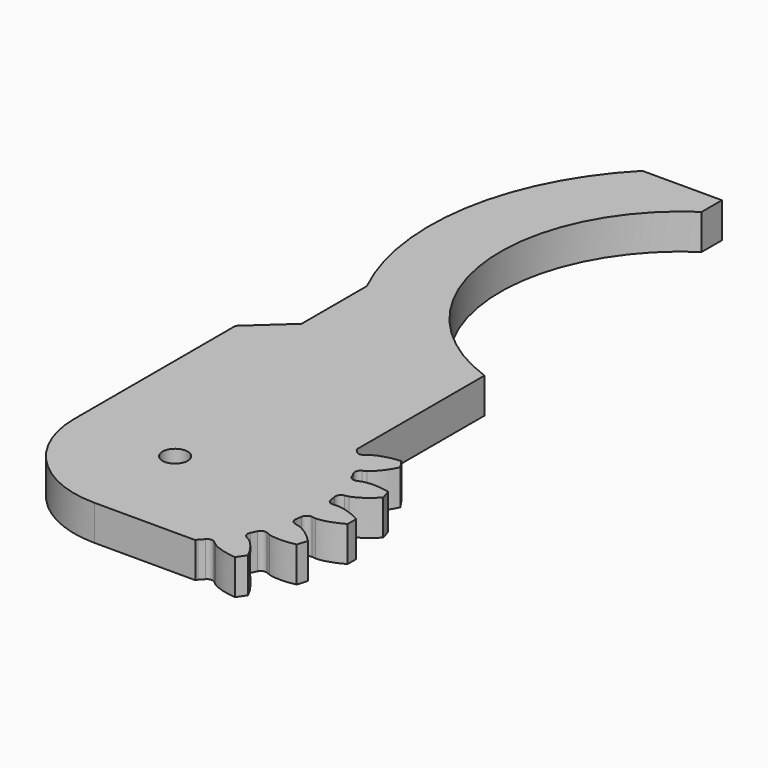
from build123d import *

# Parameters (mm, degrees)
SKETCH002_W       = 3.675859
SKETCH002_H       = 9.820133
PAD002_DEPTH      = 10
CYLINDER001_R     = 2.5
CYLINDER001_DEPTH = 30
PAD_DEPTH         = 7
PAD001_DEPTH      = 7


with BuildPart() as gearcutter_g:
    # Sketch002 → Pad002 (new body)
    with BuildSketch(Plane.XY):
        with BuildLine():
            Line((-20, 35), (-38.772621, 35))
            Line((-38.772621, 35), (-38.772621, -38.212818))
            Line((-38.772621, -38.212818), (39.418999, -38.212818))
            Line((20.044458, -20.01598), (39.418999, -38.212818))
            Line((0, -20), (20.044458, -20.01598))
            ThreePointArc((-20, 0), (-14.142136, -14.142136), (0, -20))
            Line((-20, 35), (-20, 0))
        make_face()
        with Locations((21.83793, 25.089934)):
            Rectangle(SKETCH002_W, SKETCH002_H)
    extrude(amount=PAD002_DEPTH)


with BuildPart() as hole:
    # Cylinder001 → Cylinder001 (new body)
    with BuildSketch(Plane.XY.offset(-10)):
        Circle(CYLINDER001_R)
    extrude(amount=CYLINDER001_DEPTH)


with BuildPart() as cut001:
    # InvoluteGear → Pad (new body)
    with BuildSketch(Plane.XY):
        with BuildLine():
            Line((29.216017, -2.627852), (30.02668, -2.698596))
            add(Edge.make_bspline(
                [(30.02668, -2.698596), (30.269336, -2.702327), (31.240634, -2.684194), (32.940327, -2.265756), (35.058609, -1.065575)],
                knots=[0, 0, 0, 0, 0, 1, 1, 1, 1, 1], degree=4))
            ThreePointArc((35.058609, -1.065575), (35.074799, 0), (35.058609, 1.065575))
            add(Edge.make_bspline(
                [(35.058609, 1.065575), (32.940327, 2.265756), (31.240634, 2.684194), (30.269336, 2.702327), (30.02668, 2.698596)],
                knots=[0, 0, 0, 0, 0, 1, 1, 1, 1, 1], degree=4))
            Line((30.02668, 2.698596), (29.216017, 2.627852))
            ThreePointArc((29.216017, 2.627852), (28.398075, 2.874673), (27.979368, 3.61941))
            ThreePointArc((27.979368, 3.61941), (27.89739, 4.204855), (27.803163, 4.788454))
            ThreePointArc((27.803163, 4.788454), (27.983753, 5.62352), (28.692604, 6.100468))
            Line((28.692604, 6.100468), (29.488104, 6.271815))
            add(Edge.make_bspline(
                [(29.488104, 6.271815), (29.72108, 6.339774), (30.64388, 6.643396), (32.144724, 7.544237), (33.815137, 9.315472)],
                knots=[0, 0, 0, 0, 0, 1, 1, 1, 1, 1], degree=4))
            ThreePointArc((33.815137, 9.315472), (33.516524, 10.338478), (33.18697, 11.351941))
            add(Edge.make_bspline(
                [(33.18697, 11.351941), (30.809038, 11.874427), (29.06152, 11.773281), (28.12803, 11.504313), (27.897254, 11.429224)],
                knots=[0, 0, 0, 0, 0, 1, 1, 1, 1, 1], degree=4))
            Line((27.897254, 11.429224), (27.143458, 11.122676))
            ThreePointArc((27.143458, 11.122676), (26.289104, 11.117439), (25.669483, 11.705673))
            ThreePointArc((25.669483, 11.705673), (25.418584, 12.240945), (25.156525, 12.770842))
            ThreePointArc((25.156525, 12.770842), (25.082952, 13.622039), (25.619728, 14.286735))
            Line((25.619728, 14.286735), (26.32938, 14.684947))
            add(Edge.make_bspline(
                [(26.32938, 14.684947), (26.531974, 14.818557), (27.324283, 15.380691), (28.492921, 16.683892), (29.567042, 18.868799)],
                knots=[0, 0, 0, 0, 0, 1, 1, 1, 1, 1], degree=4))
            ThreePointArc((29.567042, 18.868799), (28.980159, 19.758338), (28.366523, 20.629637))
            add(Edge.make_bspline(
                [(28.366523, 20.629637), (25.94023, 20.428003), (24.300163, 19.816261), (23.487425, 19.284092), (23.289034, 19.144315)],
                knots=[0, 0, 0, 0, 0, 1, 1, 1, 1, 1], degree=4))
            Line((23.289034, 19.144315), (22.659084, 18.629202))
            ThreePointArc((22.659084, 18.629202), (21.84423, 18.372372), (21.078752, 18.751836))
            ThreePointArc((21.078752, 18.751836), (20.681226, 19.189373), (20.274619, 19.618485))
            ThreePointArc((20.274619, 19.618485), (19.95342, 20.41018), (20.270426, 21.203563))
            Line((20.270426, 21.203563), (20.831176, 21.793257))
            add(Edge.make_bspline(
                [(20.831176, 21.793257), (20.985387, 21.980647), (21.576804, 22.751344), (22.309397, 24.341109), (22.691785, 26.745549)],
                knots=[0, 0, 0, 0, 0, 1, 1, 1, 1, 1], degree=4))
            ThreePointArc((22.691785, 26.745549), (21.868779, 27.422582), (21.025585, 28.074299))
            add(Edge.make_bspline(
                [(21.025585, 28.074299), (18.766519, 27.166461), (17.37963, 26.098479), (16.759858, 25.350393), (16.611482, 25.15835)],
                knots=[0, 0, 0, 0, 0, 1, 1, 1, 1, 1], degree=4))
            Line((16.611482, 25.15835), (16.161351, 24.480441))
            ThreePointArc((16.161351, 24.480441), (15.4584, 23.994839), (14.615082, 24.131816))
            ThreePointArc((14.615082, 24.131816), (14.10625, 24.432742), (13.591225, 24.72294))
            ThreePointArc((13.591225, 24.72294), (13.05094, 25.384787), (13.120008, 26.236361))
            Line((13.120008, 26.236361), (13.48203, 26.96514))
            add(Edge.make_bspline(
                [(13.48203, 26.96514), (13.574155, 27.18966), (13.912131, 28.10044), (14.143586, 29.835512), (13.800264, 32.245841)],
                knots=[0, 0, 0, 0, 0, 1, 1, 1, 1, 1], degree=4))
            ThreePointArc((13.800264, 32.245841), (12.814263, 32.65021), (11.816433, 33.024437))
            add(Edge.make_bspline(
                [(11.816433, 33.024437), (9.92532, 31.49106), (8.91484, 30.061732), (8.543105, 29.164202), (8.457926, 28.936956)],
                knots=[0, 0, 0, 0, 0, 1, 1, 1, 1, 1], degree=4))
            Line((8.457926, 28.936956), (8.227611, 28.156485))
            ThreePointArc((8.227611, 28.156485), (7.699024, 27.485259), (6.852797, 27.367578))
            ThreePointArc((6.852797, 27.367578), (6.277872, 27.505154), (5.70019, 27.630653))
            ThreePointArc((5.70019, 27.630653), (4.988826, 28.103844), (4.80382, 28.937943))
            Line((4.80382, 28.937943), (4.934946, 29.741053))
            add(Edge.make_bspline(
                [(4.934946, 29.741053), (4.956801, 29.982752), (5.011304, 30.952689), (4.721054, 32.678899), (3.682528, 34.880948)],
                knots=[0, 0, 0, 0, 0, 1, 1, 1, 1, 1], degree=4))
            ThreePointArc((3.682528, 34.880948), (2.621143, 34.976723), (1.557338, 35.040209))
            add(Edge.make_bspline(
                [(1.557338, 35.040209), (0.202213, 33.01754), (-0.342073, 31.353869), (-0.43274, 30.386642), (-0.447153, 30.144385)],
                knots=[0, 0, 0, 0, 0, 1, 1, 1, 1, 1], degree=4))
            Line((-0.447153, 30.144385), (-0.437188, 29.330703))
            ThreePointArc((-0.437188, 29.330703), (-0.744444, 28.533493), (-1.518389, 28.171611))
            ThreePointArc((-1.518389, 28.171611), (-2.108323, 28.133612), (-2.697331, 28.083261))
            ThreePointArc((-2.697331, 28.083261), (-3.516567, 28.325751), (-3.939209, 29.068262))
            Line((-3.939209, 29.068262), (-4.050629, 29.874342))
            add(Edge.make_bspline(
                [(-4.050629, 29.874342), (-4.100987, 30.111745), (-4.3348, 31.054656), (-5.120964, 32.618623), (-6.762416, 34.416729)],
                knots=[0, 0, 0, 0, 0, 1, 1, 1, 1, 1], degree=4))
            ThreePointArc((-6.762416, 34.416729), (-7.804877, 34.195401), (-8.840133, 33.942504))
            add(Edge.make_bspline(
                [(-8.840133, 33.942504), (-9.538861, 31.610267), (-9.56859, 29.860077), (-9.370135, 28.909097), (-9.312501, 28.673354)],
                knots=[0, 0, 0, 0, 0, 1, 1, 1, 1, 1], degree=4))
            Line((-9.312501, 28.673354), (-9.063142, 27.898758))
            ThreePointArc((-9.063142, 27.898758), (-9.121765, 27.046401), (-9.754659, 26.472472))
            ThreePointArc((-9.754659, 26.472472), (-10.307184, 26.262276), (-10.855183, 26.040548))
            ThreePointArc((-10.855183, 26.040548), (-11.709498, 26.030791), (-12.332222, 26.615739))
            Line((-12.332222, 26.615739), (-12.676288, 27.353165))
            add(Edge.make_bspline(
                [(-12.676288, 27.353165), (-12.794385, 27.565178), (-13.295737, 28.39728), (-14.507962, 29.660038), (-16.60649, 30.894434)],
                knots=[0, 0, 0, 0, 0, 1, 1, 1, 1, 1], degree=4))
            ThreePointArc((-16.60649, 30.894434), (-17.537399, 30.375667), (-18.452119, 29.828859))
            add(Edge.make_bspline(
                [(-18.452119, 29.828859), (-18.432366, 27.394282), (-17.944897, 25.713086), (-17.474952, 24.862851), (-17.350392, 24.65457)],
                knots=[0, 0, 0, 0, 0, 1, 1, 1, 1, 1], degree=4))
            Line((-17.350392, 24.65457), (-16.883795, 23.987887))
            ThreePointArc((-16.883795, 23.987887), (-16.688578, 23.156118), (-17.124185, 22.421138))
            ThreePointArc((-17.124185, 22.421138), (-17.590206, 22.057421), (-18.048504, 21.684019))
            ThreePointArc((-18.048504, 21.684019), (-18.861988, 21.422881), (-19.629463, 21.79829))
            Line((-19.629463, 21.79829), (-20.175603, 22.401539))
            add(Edge.make_bspline(
                [(-20.175603, 22.401539), (-20.350945, 22.569323), (-21.07529, 23.216681), (-22.605863, 24.066029), (-24.975004, 24.627032)],
                knots=[0, 0, 0, 0, 0, 1, 1, 1, 1, 1], degree=4))
            ThreePointArc((-24.975004, 24.627032), (-25.711647, 23.856922), (-26.424554, 23.064789))
            add(Edge.make_bspline(
                [(-26.424554, 23.064789), (-25.688074, 20.744196), (-24.726721, 19.281374), (-24.027043, 18.607432), (-23.846625, 18.445118)],
                knots=[0, 0, 0, 0, 0, 1, 1, 1, 1, 1], degree=4))
            Line((-23.846625, 18.445118), (-23.204249, 17.945586))
            ThreePointArc((-23.204249, 17.945586), (-22.772537, 17.208312), (-22.972152, 16.377588))
            ThreePointArc((-22.972152, 16.377588), (-23.310261, 15.892667), (-23.638136, 15.400768))
            ThreePointArc((-23.638136, 15.400768), (-24.338508, 14.911454), (-25.182539, 15.043968))
            Line((-25.182539, 15.043968), (-25.882227, 15.459439))
            add(Edge.make_bspline(
                [(-25.882227, 15.459439), (-26.099234, 15.568085), (-26.982211, 15.973178), (-28.695135, 16.333648), (-31.12438, 16.17141)],
                knots=[0, 0, 0, 0, 0, 1, 1, 1, 1, 1], degree=4))
            ThreePointArc((-31.12438, 16.17141), (-31.601302, 15.218385), (-32.049051, 14.251311))
            add(Edge.make_bspline(
                [(-32.049051, 14.251311), (-30.661284, 12.250897), (-29.311467, 11.136428), (-28.444225, 10.698661), (-28.22398, 10.596737)],
                knots=[0, 0, 0, 0, 0, 1, 1, 1, 1, 1], degree=4))
            Line((-28.22398, 10.596737), (-27.462904, 10.308742))
            ThreePointArc((-27.462904, 10.308742), (-26.833056, 9.731472), (-26.778943, 8.878817))
            ThreePointArc((-26.778943, 8.878817), (-26.959098, 8.31578), (-27.127416, 7.749093))
            ThreePointArc((-27.127416, 7.749093), (-27.652445, 7.075079), (-28.498037, 6.952923))
            Line((-28.498037, 6.952923), (-29.289102, 7.143699))
            add(Edge.make_bspline(
                [(-29.289102, 7.143699), (-29.528492, 7.183554), (-30.491644, 7.310388), (-32.234718, 7.14995), (-34.508218, 6.278888)],
                knots=[0, 0, 0, 0, 0, 1, 1, 1, 1, 1], degree=4))
            ThreePointArc((-34.508218, 6.278888), (-34.683042, 5.227628), (-34.825849, 4.171541))
            add(Edge.make_bspline(
                [(-34.825849, 4.171541), (-32.910105, 2.669052), (-31.29176, 2.001961), (-30.334014, 1.839267), (-30.093511, 1.80679)],
                knots=[0, 0, 0, 0, 0, 1, 1, 1, 1, 1], degree=4))
            Line((-30.093511, 1.80679), (-29.281359, 1.75592))
            ThreePointArc((-29.281359, 1.75592), (-28.50934, 1.389948), (-28.206307, 0.591124))
            ThreePointArc((-28.206307, 0.591124), (-28.2125, 0), (-28.206307, -0.591124))
            ThreePointArc((-28.206307, -0.591124), (-28.50934, -1.389948), (-29.281359, -1.75592))
            Line((-29.281359, -1.75592), (-30.093511, -1.80679))
            add(Edge.make_bspline(
                [(-30.093511, -1.80679), (-30.334014, -1.839267), (-31.29176, -2.001961), (-32.910105, -2.669052), (-34.825849, -4.171541)],
                knots=[0, 0, 0, 0, 0, 1, 1, 1, 1, 1], degree=4))
            ThreePointArc((-34.825849, -4.171541), (-34.683042, -5.227628), (-34.508218, -6.278888))
            add(Edge.make_bspline(
                [(-34.508218, -6.278888), (-32.234718, -7.14995), (-30.491644, -7.310388), (-29.528492, -7.183554), (-29.289102, -7.143699)],
                knots=[0, 0, 0, 0, 0, 1, 1, 1, 1, 1], degree=4))
            Line((-29.289102, -7.143699), (-28.498037, -6.952923))
            ThreePointArc((-28.498037, -6.952923), (-27.652445, -7.075079), (-27.127416, -7.749093))
            ThreePointArc((-27.127416, -7.749093), (-26.959098, -8.31578), (-26.778943, -8.878817))
            ThreePointArc((-26.778943, -8.878817), (-26.833056, -9.731472), (-27.462904, -10.308742))
            Line((-27.462904, -10.308742), (-28.22398, -10.596737))
            add(Edge.make_bspline(
                [(-28.22398, -10.596737), (-28.444225, -10.698661), (-29.311467, -11.136428), (-30.661284, -12.250897), (-32.049051, -14.251311)],
                knots=[0, 0, 0, 0, 0, 1, 1, 1, 1, 1], degree=4))
            ThreePointArc((-32.049051, -14.251311), (-31.601302, -15.218385), (-31.12438, -16.17141))
            add(Edge.make_bspline(
                [(-31.12438, -16.17141), (-28.695135, -16.333648), (-26.982211, -15.973178), (-26.099234, -15.568085), (-25.882227, -15.459439)],
                knots=[0, 0, 0, 0, 0, 1, 1, 1, 1, 1], degree=4))
            Line((-25.882227, -15.459439), (-25.182539, -15.043968))
            ThreePointArc((-25.182539, -15.043968), (-24.338508, -14.911454), (-23.638136, -15.400768))
            ThreePointArc((-23.638136, -15.400768), (-23.310261, -15.892667), (-22.972152, -16.377588))
            ThreePointArc((-22.972152, -16.377588), (-22.772537, -17.208312), (-23.204249, -17.945586))
            Line((-23.204249, -17.945586), (-23.846625, -18.445118))
            add(Edge.make_bspline(
                [(-23.846625, -18.445118), (-24.027043, -18.607432), (-24.726721, -19.281374), (-25.688074, -20.744196), (-26.424554, -23.064789)],
                knots=[0, 0, 0, 0, 0, 1, 1, 1, 1, 1], degree=4))
            ThreePointArc((-26.424554, -23.064789), (-25.711647, -23.856922), (-24.975004, -24.627032))
            add(Edge.make_bspline(
                [(-24.975004, -24.627032), (-22.605863, -24.066029), (-21.07529, -23.216681), (-20.350945, -22.569323), (-20.175603, -22.401539)],
                knots=[0, 0, 0, 0, 0, 1, 1, 1, 1, 1], degree=4))
            Line((-20.175603, -22.401539), (-19.629463, -21.79829))
            ThreePointArc((-19.629463, -21.79829), (-18.861988, -21.422881), (-18.048504, -21.684019))
            ThreePointArc((-18.048504, -21.684019), (-17.590206, -22.057421), (-17.124185, -22.421138))
            ThreePointArc((-17.124185, -22.421138), (-16.688578, -23.156118), (-16.883795, -23.987887))
            Line((-16.883795, -23.987887), (-17.350392, -24.65457))
            add(Edge.make_bspline(
                [(-17.350392, -24.65457), (-17.474952, -24.862851), (-17.944897, -25.713086), (-18.432366, -27.394282), (-18.452119, -29.828859)],
                knots=[0, 0, 0, 0, 0, 1, 1, 1, 1, 1], degree=4))
            ThreePointArc((-18.452119, -29.828859), (-17.537399, -30.375667), (-16.60649, -30.894434))
            add(Edge.make_bspline(
                [(-16.60649, -30.894434), (-14.507962, -29.660038), (-13.295737, -28.39728), (-12.794385, -27.565178), (-12.676288, -27.353165)],
                knots=[0, 0, 0, 0, 0, 1, 1, 1, 1, 1], degree=4))
            Line((-12.676288, -27.353165), (-12.332222, -26.615739))
            ThreePointArc((-12.332222, -26.615739), (-11.709498, -26.030791), (-10.855183, -26.040548))
            ThreePointArc((-10.855183, -26.040548), (-10.307184, -26.262276), (-9.754659, -26.472472))
            ThreePointArc((-9.754659, -26.472472), (-9.121765, -27.046401), (-9.063142, -27.898758))
            Line((-9.063142, -27.898758), (-9.312501, -28.673354))
            add(Edge.make_bspline(
                [(-9.312501, -28.673354), (-9.370135, -28.909097), (-9.56859, -29.860077), (-9.538861, -31.610267), (-8.840133, -33.942504)],
                knots=[0, 0, 0, 0, 0, 1, 1, 1, 1, 1], degree=4))
            ThreePointArc((-8.840133, -33.942504), (-7.804877, -34.195401), (-6.762416, -34.416729))
            add(Edge.make_bspline(
                [(-6.762416, -34.416729), (-5.120964, -32.618623), (-4.3348, -31.054656), (-4.100987, -30.111745), (-4.050629, -29.874342)],
                knots=[0, 0, 0, 0, 0, 1, 1, 1, 1, 1], degree=4))
            Line((-4.050629, -29.874342), (-3.939209, -29.068262))
            ThreePointArc((-3.939209, -29.068262), (-3.516567, -28.325751), (-2.697331, -28.083261))
            ThreePointArc((-2.697331, -28.083261), (-2.108323, -28.133612), (-1.518389, -28.171611))
            ThreePointArc((-1.518389, -28.171611), (-0.744444, -28.533493), (-0.437188, -29.330703))
            Line((-0.437188, -29.330703), (-0.447153, -30.144385))
            add(Edge.make_bspline(
                [(-0.447153, -30.144385), (-0.43274, -30.386642), (-0.342073, -31.353869), (0.202213, -33.01754), (1.557338, -35.040209)],
                knots=[0, 0, 0, 0, 0, 1, 1, 1, 1, 1], degree=4))
            ThreePointArc((1.557338, -35.040209), (2.621143, -34.976723), (3.682528, -34.880948))
            add(Edge.make_bspline(
                [(3.682528, -34.880948), (4.721054, -32.678899), (5.011304, -30.952689), (4.956801, -29.982752), (4.934946, -29.741053)],
                knots=[0, 0, 0, 0, 0, 1, 1, 1, 1, 1], degree=4))
            Line((4.934946, -29.741053), (4.80382, -28.937943))
            ThreePointArc((4.80382, -28.937943), (4.988826, -28.103844), (5.70019, -27.630653))
            ThreePointArc((5.70019, -27.630653), (6.277872, -27.505154), (6.852797, -27.367578))
            ThreePointArc((6.852797, -27.367578), (7.699024, -27.485259), (8.227611, -28.156485))
            Line((8.227611, -28.156485), (8.457926, -28.936956))
            add(Edge.make_bspline(
                [(8.457926, -28.936956), (8.543105, -29.164202), (8.91484, -30.061732), (9.92532, -31.49106), (11.816433, -33.024437)],
                knots=[0, 0, 0, 0, 0, 1, 1, 1, 1, 1], degree=4))
            ThreePointArc((11.816433, -33.024437), (12.814263, -32.65021), (13.800264, -32.245841))
            add(Edge.make_bspline(
                [(13.800264, -32.245841), (14.143586, -29.835512), (13.912131, -28.10044), (13.574155, -27.18966), (13.48203, -26.96514)],
                knots=[0, 0, 0, 0, 0, 1, 1, 1, 1, 1], degree=4))
            Line((13.48203, -26.96514), (13.120008, -26.236361))
            ThreePointArc((13.120008, -26.236361), (13.05094, -25.384787), (13.591225, -24.72294))
            ThreePointArc((13.591225, -24.72294), (14.10625, -24.432742), (14.615082, -24.131816))
            ThreePointArc((14.615082, -24.131816), (15.4584, -23.994839), (16.161351, -24.480441))
            Line((16.161351, -24.480441), (16.611482, -25.15835))
            add(Edge.make_bspline(
                [(16.611482, -25.15835), (16.759858, -25.350393), (17.37963, -26.098479), (18.766519, -27.166461), (21.025585, -28.074299)],
                knots=[0, 0, 0, 0, 0, 1, 1, 1, 1, 1], degree=4))
            ThreePointArc((21.025585, -28.074299), (21.868779, -27.422582), (22.691785, -26.745549))
            add(Edge.make_bspline(
                [(22.691785, -26.745549), (22.309397, -24.341109), (21.576804, -22.751344), (20.985387, -21.980647), (20.831176, -21.793257)],
                knots=[0, 0, 0, 0, 0, 1, 1, 1, 1, 1], degree=4))
            Line((20.831176, -21.793257), (20.270426, -21.203563))
            ThreePointArc((20.270426, -21.203563), (19.95342, -20.41018), (20.274619, -19.618485))
            ThreePointArc((20.274619, -19.618485), (20.681226, -19.189373), (21.078752, -18.751836))
            ThreePointArc((21.078752, -18.751836), (21.84423, -18.372372), (22.659084, -18.629202))
            Line((22.659084, -18.629202), (23.289034, -19.144315))
            add(Edge.make_bspline(
                [(23.289034, -19.144315), (23.487425, -19.284092), (24.300163, -19.816261), (25.94023, -20.428003), (28.366523, -20.629637)],
                knots=[0, 0, 0, 0, 0, 1, 1, 1, 1, 1], degree=4))
            ThreePointArc((28.366523, -20.629637), (28.980159, -19.758338), (29.567042, -18.868799))
            add(Edge.make_bspline(
                [(29.567042, -18.868799), (28.492921, -16.683892), (27.324283, -15.380691), (26.531974, -14.818557), (26.32938, -14.684947)],
                knots=[0, 0, 0, 0, 0, 1, 1, 1, 1, 1], degree=4))
            Line((26.32938, -14.684947), (25.619728, -14.286735))
            ThreePointArc((25.619728, -14.286735), (25.082952, -13.622039), (25.156525, -12.770842))
            ThreePointArc((25.156525, -12.770842), (25.418584, -12.240945), (25.669483, -11.705673))
            ThreePointArc((25.669483, -11.705673), (26.289104, -11.117439), (27.143458, -11.122676))
            Line((27.143458, -11.122676), (27.897254, -11.429224))
            add(Edge.make_bspline(
                [(27.897254, -11.429224), (28.12803, -11.504313), (29.06152, -11.773281), (30.809038, -11.874427), (33.18697, -11.351941)],
                knots=[0, 0, 0, 0, 0, 1, 1, 1, 1, 1], degree=4))
            ThreePointArc((33.18697, -11.351941), (33.516524, -10.338478), (33.815137, -9.315472))
            add(Edge.make_bspline(
                [(33.815137, -9.315472), (32.144724, -7.544237), (30.64388, -6.643396), (29.72108, -6.339774), (29.488104, -6.271815)],
                knots=[0, 0, 0, 0, 0, 1, 1, 1, 1, 1], degree=4))
            Line((29.488104, -6.271815), (28.692604, -6.100468))
            ThreePointArc((28.692604, -6.100468), (27.983753, -5.62352), (27.803163, -4.788454))
            ThreePointArc((27.803163, -4.788454), (27.89739, -4.204855), (27.979368, -3.61941))
            ThreePointArc((27.979368, -3.61941), (28.398075, -2.874673), (29.216017, -2.627852))
        make_face()
    extrude(amount=PAD_DEPTH)

    # Cut: cut hole
    add(hole.part, mode=Mode.SUBTRACT)

    # Cut001: cut gearcutter_g
    add(gearcutter_g.part, mode=Mode.SUBTRACT)


with BuildPart() as obj1:
    # Sketch001 → Pad001 (new body)
    with BuildSketch(Plane.XY):
        with BuildLine():
            Line((20.522763, 10), (-20, 10))
            Line((-20, 10), (-20, 40))
            Line((-20, 40), (-12.44178, 46.907085))
            Line((-12.44178, 63.085703), (-12.44178, 46.907085))
            ThreePointArc((-3.272439, 119.933259), (-16.862004, 92.961944), (-12.44178, 63.085703))
            Line((12.5, 119.933259), (-3.272439, 119.933259))
            Line((12.5, 119.933259), (12.5, 114.933259))
            ThreePointArc((12.5, 114.933259), (-3.21942, 80.514127), (20.522763, 51.050835))
            Line((20.522763, 51.050835), (20.522763, 10))
        make_face()
    extrude(amount=PAD001_DEPTH)

    # Fusion: union Cut001
    add(cut001.part)


solid = obj1.part
